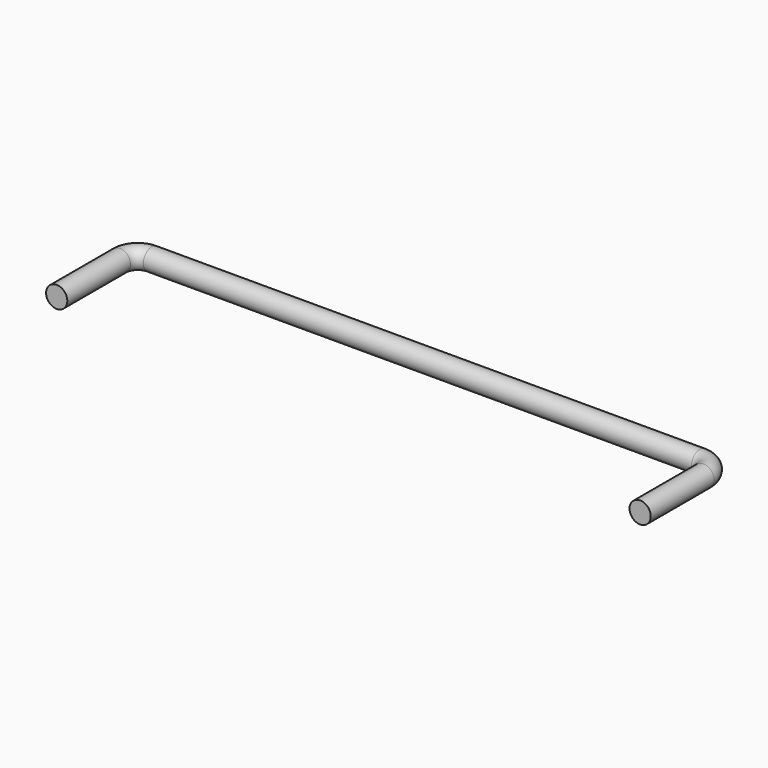
from build123d import *

# Parameters (mm, degrees)
F3_R = 3


with BuildPart() as f4:
    # F4: sweep along a path in F0
    with BuildLine(Plane.XY) as f4_path:
        Line((113.5649988055, 8.722894825), (113.5649988055, 31.0947363079))
        ThreePointArc((113.5649988055, 31.0947363079), (112.1005327115, 34.6302702138), (108.5649988055, 36.0947363079))
        Line((108.5649988055, 36.0947363079), (-46.4350011945, 36.0947363079))
        ThreePointArc((-46.4350011945, 36.0947363079), (-49.9705351004, 34.6302702138), (-51.4350011945, 31.0947363079))
        Line((-51.4350011945, 31.0947363079), (-51.4350011945, 8.722894825))
    # F3 (on line) → F4 (sweep)
    with BuildSketch(Plane.XZ.offset(-8.722894825)):
        with Locations((113.5649904609, 0)):
            Circle(F3_R)
    sweep(path=f4_path.line)


solid = f4.part
